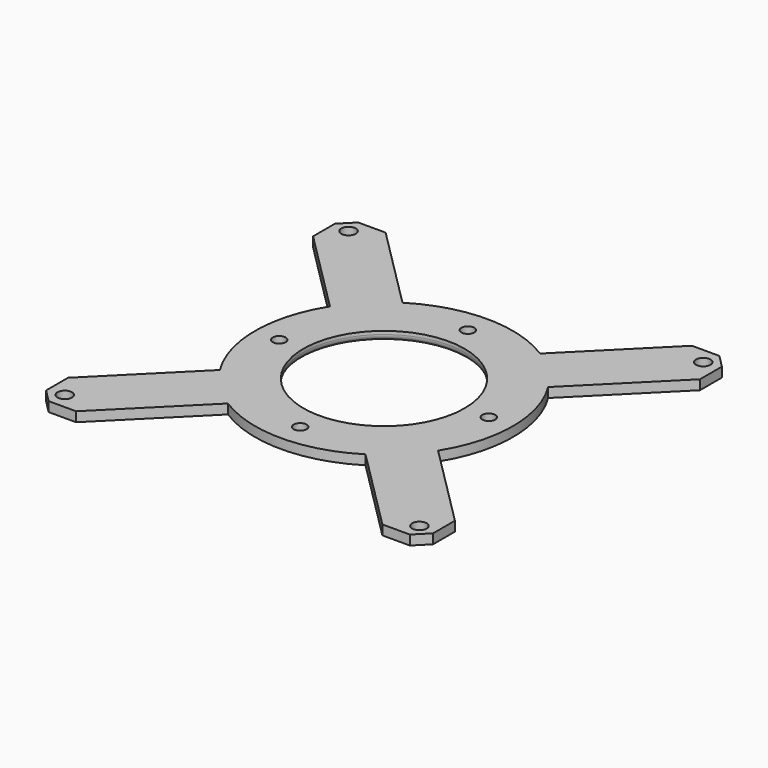
from build123d import *

# Parameters (mm, degrees)
SKETCH_W     = 120
SKETCH_H     = 120
SKETCH_R     = 2.25
SKETCH_R_2   = 25
PAD_DEPTH    = 3
FILLET_R     = 2
CHAMFER_SIZE = 4
SKETCH001_R  = 2
POCKET_DEPTH = 3.001


with BuildPart() as part:
    # Sketch → Pad (new body)
    with BuildSketch(Plane.XY):
        Rectangle(SKETCH_W, SKETCH_H)
        with Locations((-55, 55)):
            Circle(SKETCH_R, mode=Mode.SUBTRACT)
        with Locations((55, 55)):
            Circle(SKETCH_R, mode=Mode.SUBTRACT)
        with Locations((55, -55)):
            Circle(SKETCH_R, mode=Mode.SUBTRACT)
        with Locations((-55, -55)):
            Circle(SKETCH_R, mode=Mode.SUBTRACT)
        Circle(SKETCH_R_2, mode=Mode.SUBTRACT)
    extrude(amount=PAD_DEPTH)

    # Fillet
    fillet_edges = [part.edges().sort_by_distance(p)[0] for p in [
        (-25, 0, 0),
    ]]
    fillet(fillet_edges, radius=FILLET_R)

    # Chamfer
    chamfer_edges = [part.edges().sort_by_distance(p)[0] for p in [
        (-60, -60, 1.5),
        (60, -60, 1.5),
        (60, 60, 1.5),
        (-60, 60, 1.5),
    ]]
    chamfer(chamfer_edges, length=CHAMFER_SIZE)

    # Sketch001 (on Face1 of Chamfer) → Pocket (cut, through all)
    with BuildSketch(Plane.XY.offset(3)):
        with Locations((0, 32.5)):
            Circle(SKETCH001_R)
        with Locations((32.5, 0)):
            Circle(SKETCH001_R)
        with Locations((0, -32.5)):
            Circle(SKETCH001_R)
        with Locations((-32.5, 0)):
            Circle(SKETCH001_R)
        with BuildLine():
            Line((-60, 47.5), (-33.835096, 21.335096))
            ThreePointArc((-33.835096, 21.335096), (-40, 0), (-33.835096, -21.335096))
            Line((-33.835096, -21.335096), (-60, -47.5))
            Line((-60, 47.5), (-60, -47.5))
        make_face()
        with BuildLine():
            Line((-47.5, -60), (-21.335096, -33.835096))
            ThreePointArc((-21.335096, -33.835096), (0, -40), (21.335096, -33.835096))
            Line((21.335096, -33.835096), (47.5, -60))
            Line((-47.5, -60), (47.5, -60))
        make_face()
        with BuildLine():
            Line((60, -47.5), (33.835096, -21.335096))
            ThreePointArc((33.835096, -21.335096), (40, 0), (33.835096, 21.335096))
            Line((33.835096, 21.335096), (60, 47.5))
            Line((60, -47.5), (60, 47.5))
        make_face()
        with BuildLine():
            Line((47.5, 60), (21.335096, 33.835096))
            ThreePointArc((21.335096, 33.835096), (0, 40), (-21.335096, 33.835096))
            Line((-21.335096, 33.835096), (-47.5, 60))
            Line((47.5, 60), (-47.5, 60))
        make_face()
    extrude(amount=-POCKET_DEPTH, mode=Mode.SUBTRACT)


solid = part.part
